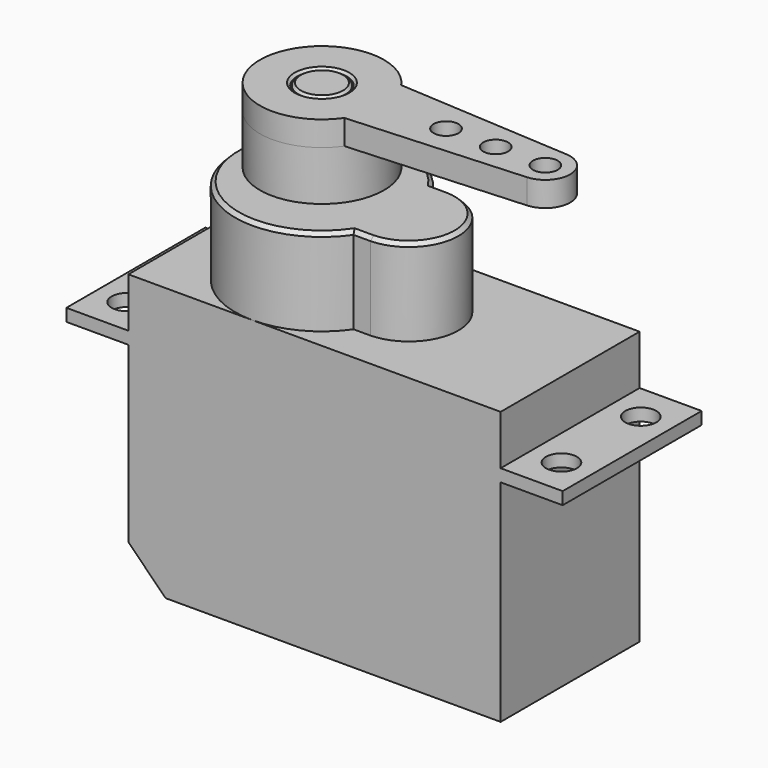
from build123d import *

# Parameters (mm, degrees)
F0_R      = 1
F1_DEPTH  = 2
F2_R      = 5
F3_DEPTH  = 4
F4_R      = 2
F5_DEPTH  = 25
F6_R      = 1.9
F7_DEPTH  = 10
F8_SIZE   = 0.2
F8_2_SIZE = 0.2
F10_DEPTH = 7
F12_DEPTH = 7
F13_SIZE  = 0.3
F14_R     = 1.25
F15_DEPTH = 1
F16_SIZE  = 3


with BuildPart() as f1:
    # F0 (on Top) → F1 (new body)
    with BuildSketch(Plane.XY):
        with BuildLine():
            Line((18.12322, 1.996201), (4.1, 2.861818))
            ThreePointArc((4.1, 2.861818), (-5, 0), (4.1, -2.861818))
            Line((4.1, -2.861818), (18.12322, -1.996201))
            ThreePointArc((18.12322, -1.996201), (20, 0), (18.12322, 1.996201))
        make_face()
        with Locations((10, 0)):
            Circle(F0_R, mode=Mode.SUBTRACT)
        with Locations((14, 0)):
            Circle(F0_R, mode=Mode.SUBTRACT)
        with Locations((18, 0)):
            Circle(F0_R, mode=Mode.SUBTRACT)
    extrude(amount=F1_DEPTH)

    # F2 (on face) → F3 (join)
    with BuildSketch(Plane(origin=(0, 0, 0), x_dir=(1, 0, 0), z_dir=(0, 0, -1))):
        Circle(F2_R)
    extrude(amount=F3_DEPTH)

    # F4 (on face) → F5 (cut)
    with BuildSketch(Plane.XY.offset(2)):
        Circle(F4_R)
    extrude(amount=-F5_DEPTH, mode=Mode.SUBTRACT)

    # F8#2
    f8_2_edges = [f1.edges().sort_by_distance(p)[0] for p in [
        (-2, 0, 2),
    ]]
    chamfer(f8_2_edges, length=F8_2_SIZE)


with BuildPart() as f7:
    # F6 (on face) → F7 (new body)
    with BuildSketch(Plane.XY.offset(2)):
        Circle(F6_R)
    extrude(amount=-F7_DEPTH)

    # F8
    f8_edges = [f7.edges().sort_by_distance(p)[0] for p in [
        (-1.9, 0, 2),
    ]]
    chamfer(f8_edges, length=F8_SIZE)



with BuildPart() as f10:
    # F9 (on Front) → F10 (new body, symmetric)
    with BuildSketch(Plane.XZ):
        Polygon((20, -16), (20, -12), (-10, -12), (-10, -16), (-15, -16), (-15, -17), (-10, -17), (-10, -34), (20, -34), (20, -17), (25, -17), (25, -16), align=None)
    extrude(amount=F10_DEPTH, both=True)


with BuildPart() as f7_1:
    add(f7.part)

    add(f10.part)  # F12 merges F10
    # F11 (on face) → F12 (join, symmetric)
    with BuildSketch(Plane.XY.offset(-12)):
        with BuildLine():
            Line((7.123901, 3.998081), (5.745899, 3.998081))
            ThreePointArc((5.745899, 3.998081), (-7, 0), (5.745899, -3.998081))
            Line((5.745899, -3.998081), (7.123901, -3.998081))
            ThreePointArc((7.123901, -3.998081), (11, 0), (7.123901, 3.998081))
        make_face()
    extrude(amount=F12_DEPTH, both=True)

    # F13
    f13_edges = [f7_1.edges().sort_by_distance(p)[0] for p in [
        (-7, 0, -5),
        (6.4349, -3.998081, -5),
        (11, 0, -5),
        (6.4349, 3.998081, -5),
    ]]
    chamfer(f13_edges, length=F13_SIZE)

    # F14 (on face) → F15 (cut, through all)
    with BuildSketch(Plane.XY.offset(-16)):
        with Locations((22.5, 4)):
            Circle(F14_R)
        with Locations((-12.5, 4)):
            Circle(F14_R)
        with Locations((22.5, -4)):
            Circle(F14_R)
        with Locations((-12.5, -4)):
            Circle(F14_R)
    extrude(amount=-F15_DEPTH, mode=Mode.SUBTRACT)

    # F16
    f16_edges = [f7_1.edges().sort_by_distance(p)[0] for p in [
        (-10, 0, -34),
    ]]
    chamfer(f16_edges, length=F16_SIZE)


solid = Compound([f1.part, f7_1.part])
